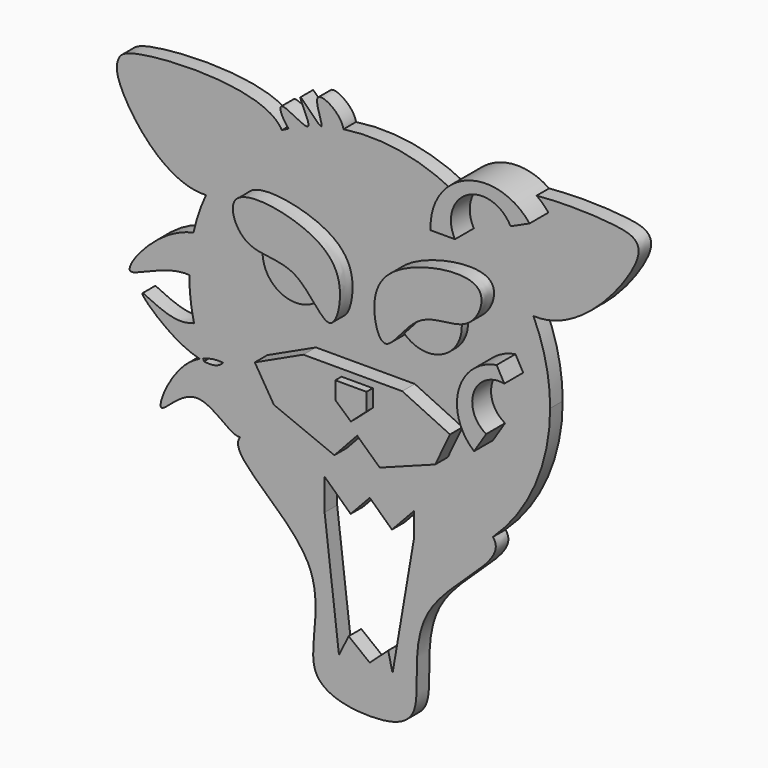
from build123d import *

# Parameters (mm, degrees)
F1_DEPTH  = 2.54
F3_DEPTH  = 5.08
F5_DEPTH  = 2.54
F6_R      = 5.3634704249
F6_R_2    = 5.529876135
F7_DEPTH  = 3.81
F9_DEPTH  = 6.35
F11_DEPTH = 6.35
F13_DEPTH = 2.54


with BuildPart() as f1:
    # F0 (on Front) → F1 (new body)
    with BuildSketch(Plane.XZ):
        with BuildLine():
            ThreePointArc((19.9323147535, -21.3360022753), (26.7815751581, -11.6305372438), (29.1979821996, 0))
            ThreePointArc((29.1979821996, 0), (28.5138808433, 6.2833720075), (26.4936334186, 12.2723083733))
            add(Edge.make_bspline(
                [(15.0926735564, 24.9946668201), (12.9095201242, 20.628070828), (19.7904329241, 12.6126579753), (26.4936334186, 12.2723083733)],
                knots=[0.7627564143, 0.7627564143, 0.7627564143, 0.7627564143, 1, 1, 1, 1], degree=3))
            ThreePointArc((15.0926735564, 24.9946668201), (5.7627089198, 28.6236501941), (-4.2446877016, 28.887796573))
            add(Edge.make_bspline(
                [(-4.2446877016, 28.887796573), (-3.8038806998, 26.3172216815), (-7.6786489952, 23.5287110656), (-10.6680002064, 24.4241058826)],
                knots=[0.8217367233, 0.8217367233, 0.8217367233, 0.8217367233, 1, 1, 1, 1], degree=3))
            add(Edge.make_bspline(
                [(-10.6680002064, 24.4241058826), (-11.6129919935, 24.7071575178), (-12.4695027686, 25.3583471601), (-13.1279393901, 26.0802486932)],
                knots=[0, 0, 0, 0, 0.0563524727, 0.0563524727, 0.0563524727, 0.0563524727], degree=3))
            ThreePointArc((-13.1279393901, 26.0802486932), (-13.6785948278, 25.7957013485), (-14.223086015, 25.4995291866))
            add(Edge.make_bspline(
                [(-14.223086015, 25.4995291866), (-11.9360815374, 21.1652547398), (-19.7499372896, 12.6256187367), (-26.4936334186, 12.2723083733)],
                knots=[0.7498514399, 0.7498514399, 0.7498514399, 0.7498514399, 1, 1, 1, 1], degree=3))
            ThreePointArc((-26.4936334186, 12.2723083733), (-27.6694973978, 9.3231474451), (-28.5181977524, 6.2637497942))
            add(Edge.make_bspline(
                [(-28.5181977524, 6.2637497942), (-25.3815964194, 6.9676538026), (-19.0393910267, 5.6111568316), (-19.5007554677, -2.4073515367), (-20.9159398751, -3.0881054699)],
                knots=[0.6664058262, 0.6664058262, 0.6664058262, 0.6664058262, 0.8235611016, 1, 1, 1, 1], degree=3))
            add(Edge.make_bspline(
                [(-20.9159398751, -3.0881054699), (-22.4732646183, -3.8372339501), (-25.448834467, -0.2750079049), (-29.1979821996, 0)],
                knots=[0, 0, 0, 0, 0.1941603234, 0.1941603234, 0.1941603234, 0.1941603234], degree=3))
            ThreePointArc((-29.1979821996, 0), (-29.0069112083, -3.3348563213), (-28.4361989635, -6.6260661811))
            add(Edge.make_bspline(
                [(-28.4361989635, -6.6260661811), (-26.6144642922, -6.030747835), (-23.2490961848, -3.8126049481), (-22.6840694849, -9.3702230259), (-23.7529674208, -10.72483825)],
                knots=[0.6776052209, 0.6776052209, 0.6776052209, 0.6776052209, 0.8233986473, 1, 1, 1, 1], degree=3))
            add(Edge.make_bspline(
                [(-23.7529674208, -10.72483825), (-22.6160402574, -10.879975801), (-19.4314947187, -12.5605425376), (-19.3436899742, -18.3951580291), (-20.3240718791, -19.8635332113)],
                knots=[0.7194329638, 0.7194329638, 0.7194329638, 0.7194329638, 0.7986145183, 0.9706024716, 0.9706024716, 0.9706024716, 0.9706024716], degree=3))
            add(Edge.make_bspline(
                [(19.9323147535, -21.3360022753), (15.9833139397, -16.7088129395), (-14.5145297817, -15.965290631), (-20.3240718791, -19.8635332113)],
                knots=[0.7753475952, 0.7753475952, 0.7753475952, 0.7753475952, 0.9910521683, 0.9910521683, 0.9910521683, 0.9910521683], degree=3))
        make_face()
        with BuildLine():
            add(Edge.make_bspline(
                [(15.0926735564, 24.9946668201), (12.9095201242, 20.628070828), (19.7904329241, 12.6126579753), (26.4936334186, 12.2723083733)],
                knots=[0.7627564143, 0.7627564143, 0.7627564143, 0.7627564143, 1, 1, 1, 1], degree=3))
            ThreePointArc((26.4936334186, 12.2723083733), (21.7444207342, 19.4859521569), (15.0926735564, 24.9946668201))
        make_face()
        with BuildLine():
            ThreePointArc((15.0926735564, 24.9946668201), (21.7444207342, 19.4859521569), (26.4936334186, 12.2723083733))
            add(Edge.make_bspline(
                [(26.4936334186, 12.2723083733), (33.889682403, 11.8967799476), (43.841695907, 24.3277964083), (43.5473737983, 28.4202156584), (39.8539798408, 30.2014484552), (17.7282821011, 30.2662329584), (15.0926735564, 24.9946668201)],
                knots=[0, 0, 0, 0, 0.261765284, 0.3628412385, 0.4763444688, 0.7627564143, 0.7627564143, 0.7627564143, 0.7627564143], degree=3))
        make_face()
        with BuildLine():
            add(Edge.make_bspline(
                [(-20.9159398751, -20.3726685456), (-23.4417855933, -23.3190165406), (-3.8156265097, -33.2856205621), (-12.6425274723, -51.6026355309), (0.0506818662, -54.0133738947), (10.0075396574, -51.8898827989), (3.9792190895, -34.0817567709), (22.6210074879, -24.486442332), (19.9323147535, -21.3360022753)],
                knots=[0, 0, 0, 0, 0.1483298342, 0.2867147106, 0.3940776134, 0.4907045549, 0.6284842883, 0.7753475952, 0.7753475952, 0.7753475952, 0.7753475952], degree=3))
            ThreePointArc((19.9323147535, -21.3360022753), (-0.6883912867, -29.1898660833), (-20.9159398751, -20.3726685456))
        make_face()
        with BuildLine():
            ThreePointArc((-20.9159398751, -20.3726685456), (-0.6883912867, -29.1898660833), (19.9323147535, -21.3360022753))
            add(Edge.make_bspline(
                [(19.9323147535, -21.3360022753), (15.9833139397, -16.7088129395), (-14.5145297817, -15.965290631), (-20.3240718791, -19.8635332113)],
                knots=[0.7753475952, 0.7753475952, 0.7753475952, 0.7753475952, 0.9910521683, 0.9910521683, 0.9910521683, 0.9910521683], degree=3))
            add(Edge.make_bspline(
                [(-20.3240718791, -19.8635332113), (-20.4916464348, -20.1145194008), (-20.6896207535, -20.2916797586), (-20.9159398751, -20.3726685456)],
                knots=[0.9706024716, 0.9706024716, 0.9706024716, 0.9706024716, 1, 1, 1, 1], degree=3))
        make_face()
        with BuildLine():
            add(Edge.make_bspline(
                [(-20.9159398751, -20.3726685456), (-22.4507633586, -20.9219084483), (-27.8676899477, -13.5290631075), (-35.9212067929, -24.3212063808), (-32.1731625543, -14.343784181), (-28.2904099562, -11.7693001393), (-27.5042825949, -11.398963297)],
                knots=[0, 0, 0, 0, 0.1993645812, 0.3804715378, 0.5869487821, 0.637748779, 0.637748779, 0.637748779, 0.637748779], degree=3))
            ThreePointArc((-20.9159398751, -20.3726685456), (-24.2753691438, -16.2243217873), (-26.8234228876, -11.5336962472))
            add(Edge.make_bspline(
                [(-26.8234228876, -11.5336962472), (-27.0448239012, -11.4999993354), (-27.2721905722, -11.4548138269), (-27.5042825949, -11.398963297)],
                knots=[0.1043225925, 0.1043225925, 0.1043225925, 0.1043225925, 0.1217332667, 0.1217332667, 0.1217332667, 0.1217332667], degree=3))
        make_face()
        with BuildLine():
            ThreePointArc((-26.8234228876, -11.5336962472), (-24.2753691438, -16.2243217873), (-20.9159398751, -20.3726685456))
            add(Edge.make_bspline(
                [(-20.3240718791, -19.8635332113), (-20.5650626202, -20.0252396508), (-20.7635710513, -20.1949333913), (-20.9159398751, -20.3726685456)],
                knots=[0.9910521683, 0.9910521683, 0.9910521683, 0.9910521683, 1, 1, 1, 1], degree=3))
            add(Edge.make_bspline(
                [(-23.7529674208, -10.72483825), (-22.6160402574, -10.879975801), (-19.4314947187, -12.5605425376), (-19.3436899742, -18.3951580291), (-20.3240718791, -19.8635332113)],
                knots=[0.7194329638, 0.7194329638, 0.7194329638, 0.7194329638, 0.7986145183, 0.9706024716, 0.9706024716, 0.9706024716, 0.9706024716], degree=3))
            add(Edge.make_bspline(
                [(-23.7529674208, -10.72483825), (-24.3843906922, -11.5250414757), (-25.4968155686, -11.7356039487), (-26.8234228876, -11.5336962472)],
                knots=[0, 0, 0, 0, 0.1043225925, 0.1043225925, 0.1043225925, 0.1043225925], degree=3))
        make_face()
        with BuildLine():
            add(Edge.make_bspline(
                [(-20.3240718791, -19.8635332113), (-20.5650626202, -20.0252396508), (-20.7635710513, -20.1949333913), (-20.9159398751, -20.3726685456)],
                knots=[0.9910521683, 0.9910521683, 0.9910521683, 0.9910521683, 1, 1, 1, 1], degree=3))
            add(Edge.make_bspline(
                [(-20.3240718791, -19.8635332113), (-20.4916464348, -20.1145194008), (-20.6896207535, -20.2916797586), (-20.9159398751, -20.3726685456)],
                knots=[0.9706024716, 0.9706024716, 0.9706024716, 0.9706024716, 1, 1, 1, 1], degree=3))
        make_face()
        with BuildLine():
            add(Edge.make_bspline(
                [(-4.2446877016, 28.887796573), (-3.8038806998, 26.3172216815), (-7.6786489952, 23.5287110656), (-10.6680002064, 24.4241058826)],
                knots=[0.8217367233, 0.8217367233, 0.8217367233, 0.8217367233, 1, 1, 1, 1], degree=3))
            ThreePointArc((-4.2446877016, 28.887796573), (-6.0584896591, 28.5625080758), (-7.8481599816, 28.1234519473))
            add(Edge.make_bspline(
                [(-7.8597153093, 28.1202247463), (-7.8556924545, 28.121041377), (-7.8518417896, 28.1221185511), (-7.8481599816, 28.1234519473)],
                knots=[0.5499618157, 0.5499618157, 0.5499618157, 0.5499618157, 0.5511586196, 0.5511586196, 0.5511586196, 0.5511586196], degree=3))
            ThreePointArc((-7.8597153093, 28.1202247463), (-8.9176064824, 27.8028498387), (-9.9627375926, 27.4456922701))
            add(Edge.make_bspline(
                [(-10.2232238411, 27.3497323355), (-10.103567884, 27.3456673157), (-10.0138407279, 27.3744180241), (-9.9627375926, 27.4456922701)],
                knots=[0.2714071402, 0.2714071402, 0.2714071402, 0.2714071402, 0.2878667195, 0.2878667195, 0.2878667195, 0.2878667195], degree=3))
            ThreePointArc((-10.2232238411, 27.3497323355), (-11.6928227234, 26.7544400294), (-13.1279393901, 26.0802486932))
            add(Edge.make_bspline(
                [(-10.6680002064, 24.4241058826), (-11.6129919935, 24.7071575178), (-12.4695027686, 25.3583471601), (-13.1279393901, 26.0802486932)],
                knots=[0, 0, 0, 0, 0.0563524727, 0.0563524727, 0.0563524727, 0.0563524727], degree=3))
        make_face()
        with BuildLine():
            ThreePointArc((-7.8481599816, 28.1234519473), (-6.0584896591, 28.5625080758), (-4.2446877016, 28.887796573))
            add(Edge.make_bspline(
                [(-7.8481599816, 28.1234519473), (-7.4634037386, 28.2627944873), (-10.6204536622, 34.6178102139), (-4.6045021666, 30.9860618582), (-4.2446877016, 28.887796573)],
                knots=[0.5511586196, 0.5511586196, 0.5511586196, 0.5511586196, 0.6762269985, 0.8217367233, 0.8217367233, 0.8217367233, 0.8217367233], degree=3))
        make_face()
        with BuildLine():
            add(Edge.make_bspline(
                [(-26.8234228876, -11.5336962472), (-27.0448239012, -11.4999993354), (-27.2721905722, -11.4548138269), (-27.5042825949, -11.398963297)],
                knots=[0.1043225925, 0.1043225925, 0.1043225925, 0.1043225925, 0.1217332667, 0.1217332667, 0.1217332667, 0.1217332667], degree=3))
            ThreePointArc((-26.8234228876, -11.5336962472), (-26.9003658987, -11.3530823586), (-26.9760927735, -11.1719552095))
            add(Edge.make_bspline(
                [(-27.5042825949, -11.398963297), (-27.3290165527, -11.3163971941), (-27.1527827963, -11.2406905881), (-26.9760927735, -11.1719552095)],
                knots=[0.637748779, 0.637748779, 0.637748779, 0.637748779, 0.6490745703, 0.6490745703, 0.6490745703, 0.6490745703], degree=3))
        make_face()
        with BuildLine():
            add(Edge.make_bspline(
                [(-27.5042825949, -11.398963297), (-28.8332942294, -11.079150478), (-33.336439079, -9.0474674504), (-39.6068282555, -2.7066446253), (-32.4812174807, -7.6179952099), (-29.1201222612, -6.8495631002), (-28.4361989635, -6.6260661811)],
                knots=[0.1217332667, 0.1217332667, 0.1217332667, 0.1217332667, 0.221430741, 0.4242709797, 0.6228708392, 0.6776052209, 0.6776052209, 0.6776052209, 0.6776052209], degree=3))
            add(Edge.make_bspline(
                [(-27.5042825949, -11.398963297), (-27.3290165527, -11.3163971941), (-27.1527827963, -11.2406905881), (-26.9760927735, -11.1719552095)],
                knots=[0.637748779, 0.637748779, 0.637748779, 0.637748779, 0.6490745703, 0.6490745703, 0.6490745703, 0.6490745703], degree=3))
            ThreePointArc((-26.9760927735, -11.1719552095), (-27.7992229325, -8.9289063651), (-28.4361989635, -6.6260661811))
        make_face()
        with BuildLine():
            add(Edge.make_bspline(
                [(-26.9760927735, -11.1719552095), (-25.8784541309, -10.7449553915), (-24.7632073602, -10.5869875986), (-23.7529674208, -10.72483825)],
                knots=[0.6490745703, 0.6490745703, 0.6490745703, 0.6490745703, 0.7194329638, 0.7194329638, 0.7194329638, 0.7194329638], degree=3))
            add(Edge.make_bspline(
                [(-28.4361989635, -6.6260661811), (-26.6144642922, -6.030747835), (-23.2490961848, -3.8126049481), (-22.6840694849, -9.3702230259), (-23.7529674208, -10.72483825)],
                knots=[0.6776052209, 0.6776052209, 0.6776052209, 0.6776052209, 0.8233986473, 1, 1, 1, 1], degree=3))
            ThreePointArc((-28.4361989635, -6.6260661811), (-27.7992229325, -8.9289063651), (-26.9760927735, -11.1719552095))
        make_face()
        with BuildLine():
            add(Edge.make_bspline(
                [(-7.8597153093, 28.1202247463), (-7.8556924545, 28.121041377), (-7.8518417896, 28.1221185511), (-7.8481599816, 28.1234519473)],
                knots=[0.5499618157, 0.5499618157, 0.5499618157, 0.5499618157, 0.5511586196, 0.5511586196, 0.5511586196, 0.5511586196], degree=3))
            ThreePointArc((-7.8481599816, 28.1234519473), (-7.8539378112, 28.1218389403), (-7.8597153093, 28.1202247463))
        make_face()
        with BuildLine():
            ThreePointArc((-9.9627375926, 27.4456922701), (-8.9176064824, 27.8028498387), (-7.8597153093, 28.1202247463))
            add(Edge.make_bspline(
                [(-9.9627375926, 27.4456922701), (-9.5706248439, 27.9925773172), (-13.4760014817, 34.3230842508), (-8.3161883915, 28.0275617155), (-7.8597153093, 28.1202247463)],
                knots=[0.2878667195, 0.2878667195, 0.2878667195, 0.2878667195, 0.414160554, 0.5499618157, 0.5499618157, 0.5499618157, 0.5499618157], degree=3))
        make_face()
        with BuildLine():
            add(Edge.make_bspline(
                [(-13.1279393901, 26.0802486932), (-14.2519708024, 27.3126224301), (-15.4743128747, 30.5282463702), (-11.0872560082, 27.3790857245), (-10.2232238411, 27.3497323355)],
                knots=[0.0563524727, 0.0563524727, 0.0563524727, 0.0563524727, 0.1525529989, 0.2714071402, 0.2714071402, 0.2714071402, 0.2714071402], degree=3))
            ThreePointArc((-13.1279393901, 26.0802486932), (-11.6928227234, 26.7544400294), (-10.2232238411, 27.3497323355))
        make_face()
        with BuildLine():
            add(Edge.make_bspline(
                [(-29.1979821996, 0), (-33.1602466258, 0.2906404645), (-42.781620312, -6.449334908), (-35.2107055653, 3.8672633579), (-29.7791390367, 5.9807742005), (-28.5181977524, 6.2637497942)],
                knots=[0.1941603234, 0.1941603234, 0.1941603234, 0.1941603234, 0.3993575035, 0.6032280252, 0.6664058262, 0.6664058262, 0.6664058262, 0.6664058262], degree=3))
            ThreePointArc((-29.1979821996, 0), (-29.0275386044, 3.1502646071), (-28.5181977524, 6.2637497942))
        make_face()
        with BuildLine():
            ThreePointArc((-28.5181977524, 6.2637497942), (-29.0275386044, 3.1502646071), (-29.1979821996, 0))
            add(Edge.make_bspline(
                [(-20.9159398751, -3.0881054699), (-22.4732646183, -3.8372339501), (-25.448834467, -0.2750079049), (-29.1979821996, 0)],
                knots=[0, 0, 0, 0, 0.1941603234, 0.1941603234, 0.1941603234, 0.1941603234], degree=3))
            add(Edge.make_bspline(
                [(-28.5181977524, 6.2637497942), (-25.3815964194, 6.9676538026), (-19.0393910267, 5.6111568316), (-19.5007554677, -2.4073515367), (-20.9159398751, -3.0881054699)],
                knots=[0.6664058262, 0.6664058262, 0.6664058262, 0.6664058262, 0.8235611016, 1, 1, 1, 1], degree=3))
        make_face()
        with BuildLine():
            add(Edge.make_bspline(
                [(-10.2232238411, 27.3497323355), (-10.103567884, 27.3456673157), (-10.0138407279, 27.3744180241), (-9.9627375926, 27.4456922701)],
                knots=[0.2714071402, 0.2714071402, 0.2714071402, 0.2714071402, 0.2878667195, 0.2878667195, 0.2878667195, 0.2878667195], degree=3))
            ThreePointArc((-9.9627375926, 27.4456922701), (-10.0930947597, 27.3980218757), (-10.2232238411, 27.3497323355))
        make_face()
        with BuildLine():
            add(Edge.make_bspline(
                [(-14.223086015, 25.4995291866), (-11.9360815374, 21.1652547398), (-19.7499372896, 12.6256187367), (-26.4936334186, 12.2723083733)],
                knots=[0.7498514399, 0.7498514399, 0.7498514399, 0.7498514399, 1, 1, 1, 1], degree=3))
            ThreePointArc((-14.223086015, 25.4995291866), (-21.4056687111, 19.8574799901), (-26.4936334186, 12.2723083733))
        make_face()
        with BuildLine():
            ThreePointArc((-26.4936334186, 12.2723083733), (-21.4056687111, 19.8574799901), (-14.223086015, 25.4995291866))
            add(Edge.make_bspline(
                [(-26.4936334186, 12.2723083733), (-33.2191020507, 11.9199529704), (-41.3372761328, 23.0907352064), (-40.894022171, 27.0985603967), (-38.7764499476, 29.680950388), (-16.8696492567, 30.5152305296), (-14.223086015, 25.4995291866)],
                knots=[0, 0, 0, 0, 0.249472435, 0.3577512455, 0.4603749695, 0.7498514399, 0.7498514399, 0.7498514399, 0.7498514399], degree=3))
        make_face()
    extrude(amount=F1_DEPTH)

    # F2 (on Front) → F3 (join)
    with BuildSketch(Plane.XZ):
        with BuildLine():
            add(Edge.make_bspline(
                [(-17.9671589285, 9.5450524241), (-15.8314628329, 8.0735773644), (-9.5897874235, 9.6111160814), (-4.216009121, -1.0126391499), (-1.7238205634, 8.7121436094), (-6.5326725785, 15.027119301), (-22.3110237172, 17.5354352286), (-19.7337584267, 10.7622233069), (-17.9671589285, 9.5450524241)],
                knots=[0, 0, 0, 0, 0.1718344507, 0.3370100351, 0.4791476049, 0.6512347755, 0.8578624295, 1, 1, 1, 1], degree=3))
        make_face()
        Polygon((0, -3.6495793611), (-8.7028425187, -3.6495793611), (-16.5634732693, -7.2991577908), (-13.4753677994, -12.3524218798), (-3.6827070795, -16.3420244398), (0, -12.3524218798), (3.6495812237, -15.721263364), (12.633157894, -12.3524218798), (15.019421, -7.2991577908), (7.2909003804, -3.6495793611), align=None)
        with BuildLine():
            add(Edge.make_bspline(
                [(17.9671589285, 9.5450524241), (15.8314628329, 8.0735773644), (9.5897874235, 9.6111160814), (4.216009121, -1.0126391499), (1.7238205634, 8.7121436094), (6.5326725785, 15.027119301), (22.3110237172, 17.5354352286), (19.7337584267, 10.7622233069), (17.9671589285, 9.5450524241)],
                knots=[0, 0, 0, 0, 0.1718344507, 0.3370100351, 0.4791476049, 0.6512347755, 0.8578624295, 1, 1, 1, 1], degree=3))
        make_face()
    extrude(amount=F3_DEPTH)

    # F4 (on Front) → F5 (cut)
    with BuildSketch(Plane.XZ):
        Polygon((-7.2991587222, -21.6167364269), (-7.2991587222, -26.7039303026), (-4.934519351, -46.6023124754), (3.6009016649, -46.6023124754), (7.1784611079, -25.5992072383), (7.1784611079, -21.7661068663), (3.6009016649, -25.5992072383), (0, -22.2383665339), (-3.0881054699, -25.5470518023), align=None)
    extrude(amount=F5_DEPTH, mode=Mode.SUBTRACT)

    # F6 (on Front) → F7 (join)
    with BuildSketch(Plane.XZ):
        with Locations((-10.9487371519, 7.860631682)):
            Circle(F6_R)
        with Locations((10.3872623295, 7.860631682)):
            Circle(F6_R_2)
    extrude(amount=F7_DEPTH)

    # F8 (on Front) → F9 (join)
    with BuildSketch(Plane.XZ):
        Polygon((-2.5266320445, -7.5798952021), (0, -9.8257893696), (2.5266329758, -7.5798952021), (2.5266329758, -4.772526212), (-2.5266320445, -4.772526212), align=None)
    extrude(amount=F9_DEPTH)

    # F10 (on Front) → F11 (join)
    with BuildSketch(Plane.XZ):
        with BuildLine():
            Line((24.8305849027, 3.6495788954), (23.5818941146, 5.8954735287))
            ThreePointArc((23.5818941146, 5.8954735287), (17.4250013961, 0.3310668289), (19.9323166162, -7.5798952021))
            Line((19.9323166162, -7.5798952021), (21.8974743038, -4.4917897321))
            ThreePointArc((21.8974743038, -4.4917897321), (19.8930158157, 0.8294051279), (24.8305849027, 3.6495788954))
        make_face()
        with BuildLine():
            Line((25.8277878165, 26.3892635703), (28.9158932865, 27.7929473668))
            ThreePointArc((28.9158932865, 27.7929473668), (18.6484119985, 30.5770890544), (12.9138939083, 21.6167364269))
            Line((12.9138939083, 21.6167364269), (16.8442111462, 21.6167364269))
            ThreePointArc((16.8442111462, 21.6167364269), (18.8902370022, 28.6067862295), (25.8277878165, 26.3892635703))
        make_face()
    extrude(amount=F11_DEPTH)

    # F12 (on Front) → F13 (join)
    with BuildSketch(Plane.XZ):
        Polygon((-5.8365158633, -47.9639959309), (4.0719979443, -47.6156324148), (2.9869719874, -43.025135994), (0, -45.7327365875), (-3.4012175165, -43.0619046092), align=None)
    extrude(amount=F13_DEPTH)


solid = f1.part
